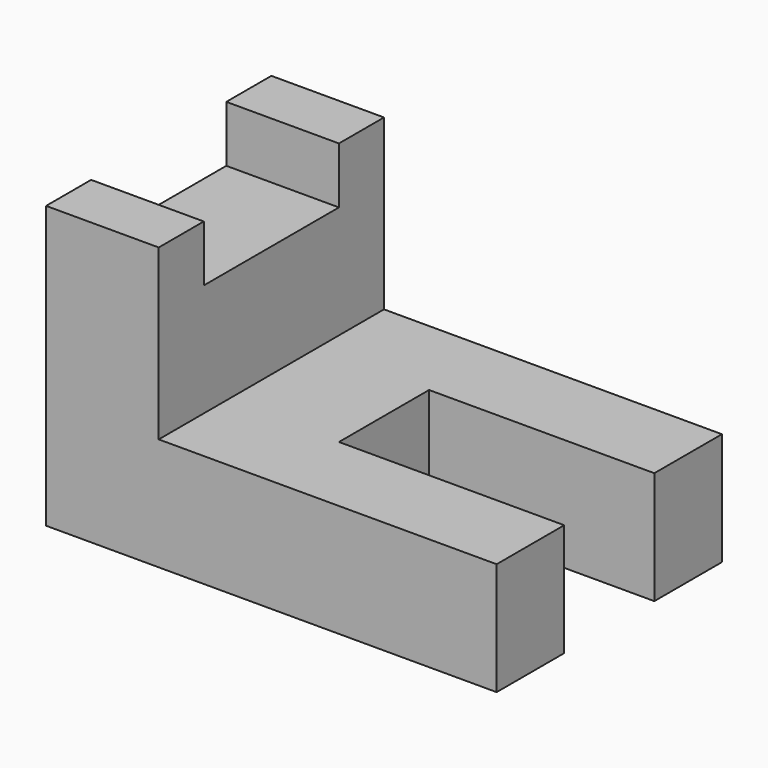
from build123d import *

# Parameters (mm, degrees)
F1_DEPTH = 50.8
F2_W     = 50.8
F2_H     = 127
F3_DEPTH = 50.8
F4_W     = 50.8
F4_H     = 25.4
F5_DEPTH = 25.4
F6_W     = 50.8
F6_H     = 25.4
F7_DEPTH = 25.4


with BuildPart() as f1:
    # F0 (on Top) → F1 (new body)
    with BuildSketch(Plane.XY):
        Polygon((83.328486, 79.250188), (-119.871514, 79.250188), (-119.871514, -47.749812), (83.328486, -47.749812), (83.328486, -9.649812), (-18.271514, -9.649812), (-18.271514, 41.150188), (83.328486, 41.150188), align=None)
    extrude(amount=F1_DEPTH)

    # F2 (on face) → F3 (join)
    with BuildSketch(Plane.XY.offset(50.8)):
        with Locations((-94.471514, 15.750188)):
            Rectangle(F2_W, F2_H)
    extrude(amount=F3_DEPTH)

    # F4 (on face) → F5 (join)
    with BuildSketch(Plane.XY.offset(101.6)):
        with Locations((-94.471514, -35.049812)):
            Rectangle(F4_W, F4_H)
    extrude(amount=F5_DEPTH)

    # F6 (on face) → F7 (join)
    with BuildSketch(Plane.XY.offset(101.6)):
        with Locations((-94.471514, 66.550188)):
            Rectangle(F6_W, F6_H)
    extrude(amount=F7_DEPTH)


solid = f1.part
